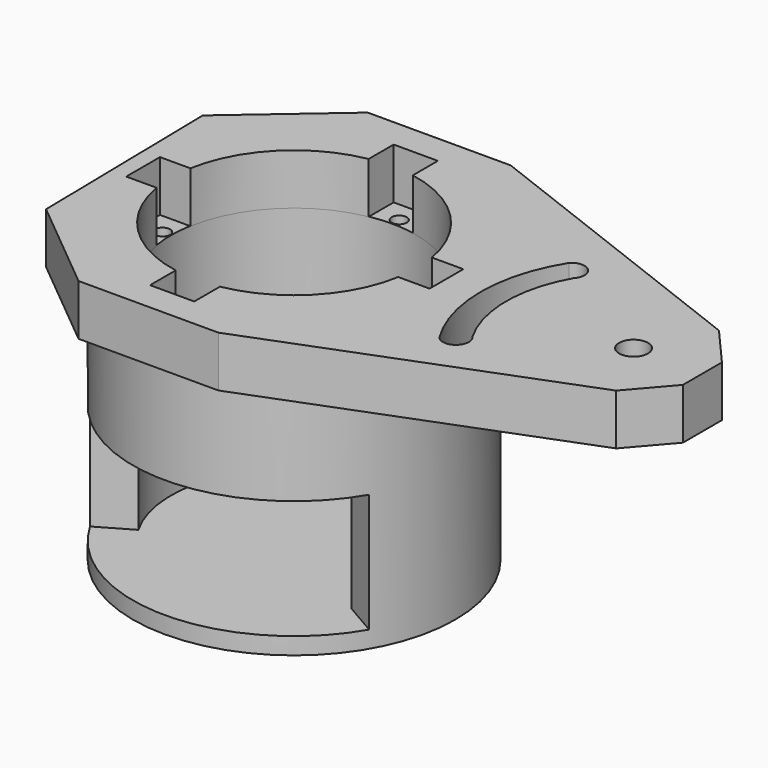
from build123d import *

# Parameters (mm, degrees)
SKETCH122_R           = 1.7
PAD049_DEPTH          = 6
SKETCH123_R           = 19
SKETCH123_R_2         = 14.5
PAD050_DEPTH          = 27
POCKET086_DEPTH       = 14
SKETCH125_R           = 0.886763
POCKET087_DEPTH       = 10
POLARPATTERN004_COUNT = 4
SKETCH150_R           = 19
PAD063_DEPTH          = 2


with BuildPart() as part:
    # Sketch122 → Pad049 (new body)
    with BuildSketch(Plane.XY):
        Polygon((8.427001, 21.382204), (-8.425608, 21.382204), (-19.924648, 11.454167), (-19.507777, -12.150562), (-8.24189, -21.453689), (8.242053, -21.453689), (44.039975, -7.608119), (48.125982, -2.870427), (48.125982, 2.870427), (43.951076, 7.65457), align=None)
        with Locations((40.008084, 0)):
            Circle(SKETCH122_R, mode=Mode.SUBTRACT)
        with BuildLine():
            ThreePointArc((14.231577, 2.509486), (10.260151, 10.176669), (2.625669, 14.210601))
            Line((2.625669, 17.896729), (2.625669, 14.210601))
            Line((-2.582623, 17.896729), (2.625669, 17.896729))
            Line((-2.582682, 14.218476), (-2.582623, 17.896729))
            ThreePointArc((-2.582682, 14.218476), (-10.244752, 10.192172), (-14.231577, 2.509486))
            Line((-17.812584, 2.509486), (-14.231577, 2.509486))
            Line((-17.812584, -2.46093), (-17.812584, 2.509486))
            Line((-14.240297, -2.459525), (-17.812584, -2.46093))
            ThreePointArc((-14.240297, -2.459525), (-10.262224, -10.174579), (-2.581573, -14.218677))
            Line((-2.581573, -17.991852), (-2.581573, -14.218677))
            Line((2.625669, -17.991852), (-2.581573, -17.991852))
            Line((2.625669, -14.210601), (2.625669, -17.991852))
            ThreePointArc((2.625669, -14.210601), (10.277853, -10.158791), (14.240229, -2.459917))
            Line((17.937973, -2.459917), (14.240229, -2.459917))
            Line((17.937973, 2.509486), (17.937973, -2.459917))
            Line((14.231577, 2.509486), (17.937973, 2.509486))
        make_face(mode=Mode.SUBTRACT)
        with BuildLine():
            ThreePointArc((24.762929, 9.570019), (22.008084, 0), (24.762929, -9.570019))
            ThreePointArc((24.762929, -9.570019), (26.937298, -9.618098), (26.985377, -7.443729))
            ThreePointArc((26.985377, 7.443729), (25.008084, 0), (26.985377, -7.443729))
            ThreePointArc((26.985377, 7.443729), (26.937298, 9.618098), (24.762929, 9.570019))
        make_face(mode=Mode.SUBTRACT)
    extrude(amount=PAD049_DEPTH)

    # Sketch123 (on Face32 of Pad049) → Pad050 (join)
    with BuildSketch(Plane(origin=(0, 0, 0), x_dir=(1, 0, 0), z_dir=(0, 0, -1))):
        Circle(SKETCH123_R)
        Circle(SKETCH123_R_2, mode=Mode.SUBTRACT)
    extrude(amount=PAD050_DEPTH)

    # Sketch124 (on Face35 of Pad050) → Pocket086 (cut)
    with BuildSketch(Plane(origin=(0, 0, -27), x_dir=(1, 0, 0), z_dir=(0, 0, -1))):
        Polygon((0, 0), (-42.583396, 24.585535), (42.583396, 24.585535), align=None)
    extrude(amount=-POCKET086_DEPTH, mode=Mode.SUBTRACT)

    # Sketch125 (on Face44 of Pocket086) → Pocket087 (cut)
    with BuildSketch(Plane.XY):
        with Locations((0, 15.490395)):
            Circle(SKETCH125_R)
    pocket087 = extrude(amount=-POCKET087_DEPTH, mode=Mode.SUBTRACT)

    # PolarPattern004: Pocket087 ×4 about axis
    polarpattern004_axis = Axis((0, 0, 0), (0, 0, 1))
    for i in range(1, POLARPATTERN004_COUNT):
        add(pocket087.rotate(polarpattern004_axis, i * 360 / POLARPATTERN004_COUNT), mode=Mode.SUBTRACT)

    # Sketch150 (on Face35 of PolarPattern004) → Pad063 (join)
    with BuildSketch(Plane(origin=(0, 0, -27), x_dir=(1, 0, 0), z_dir=(0, 0, -1))):
        Circle(SKETCH150_R)
    extrude(amount=PAD063_DEPTH)


with BuildPart() as part_1:
    # Body023 placement: moved
    add(part.part.moved(Location((0, 66, 21))))


solid = part_1.part
